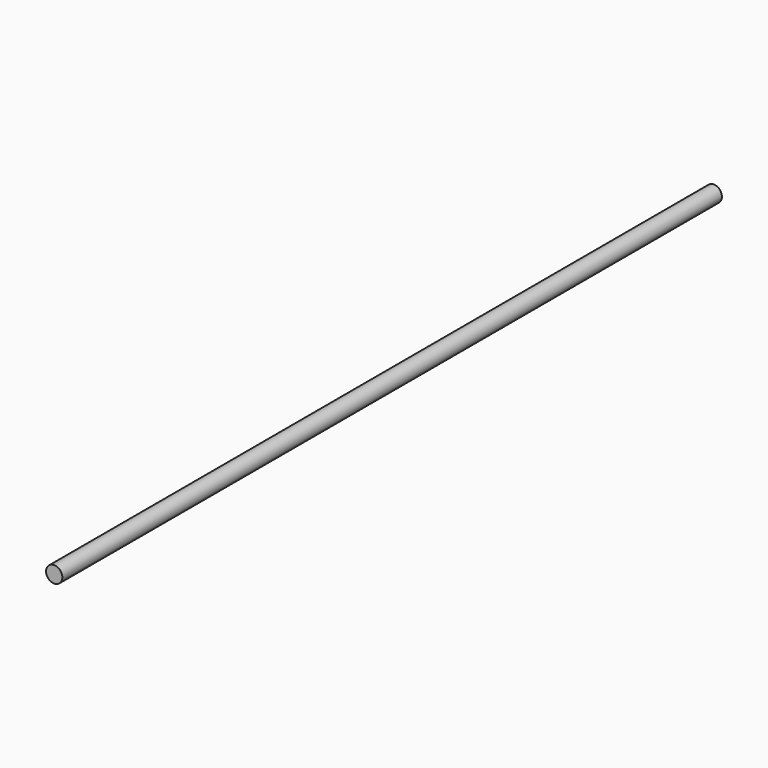
from build123d import *

# Parameters (mm, degrees)
SKETCH_R  = 4
PAD_DEPTH = 406


with BuildPart() as part:
    # Sketch → Pad (new body)
    with BuildSketch(Plane.XZ):
        Circle(SKETCH_R)
    extrude(amount=PAD_DEPTH)


solid = part.part
